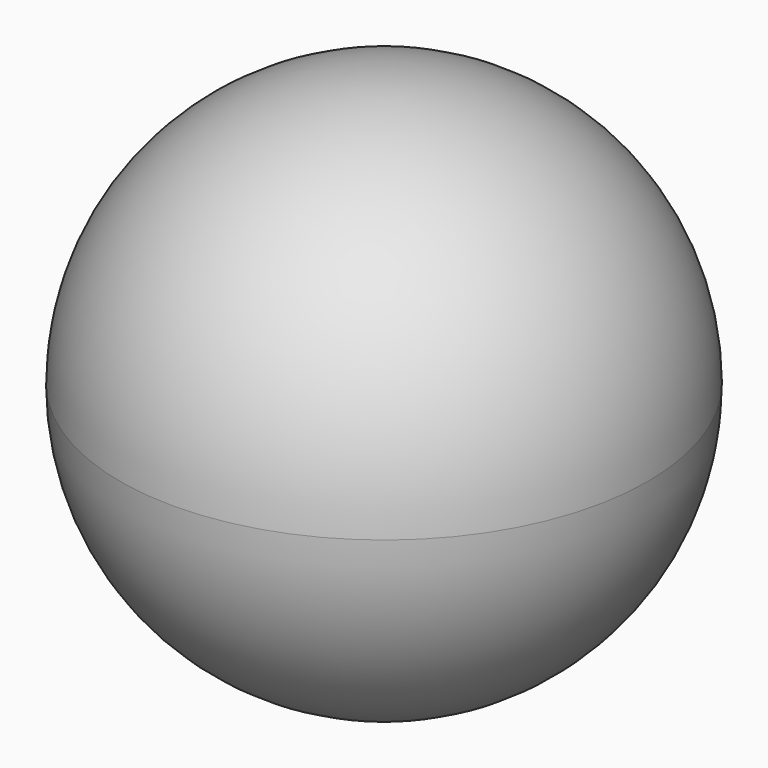
from build123d import *


with BuildPart() as f1:
    # F0 (on Front) → F1 (revolve)
    with BuildSketch(Plane.XZ):
        with BuildLine():
            Line((0, 0), (0, 46.9671465896))
            ThreePointArc((0, 46.9671465896), (-33.2107878465, 33.2107878465), (-46.9671465896, 0))
            Line((-46.9671465896, 0), (0, 0))
        make_face()
        with BuildLine():
            ThreePointArc((-46.9671465896, 0), (-33.2107878465, -33.2107878465), (0, -46.9671465896))
            Line((0, -46.9671465896), (0, 0))
            Line((0, 0), (-46.9671465896, 0))
        make_face()
    revolve(axis=Axis((0, 0, 0), (0, 0, -1)))


solid = f1.part
